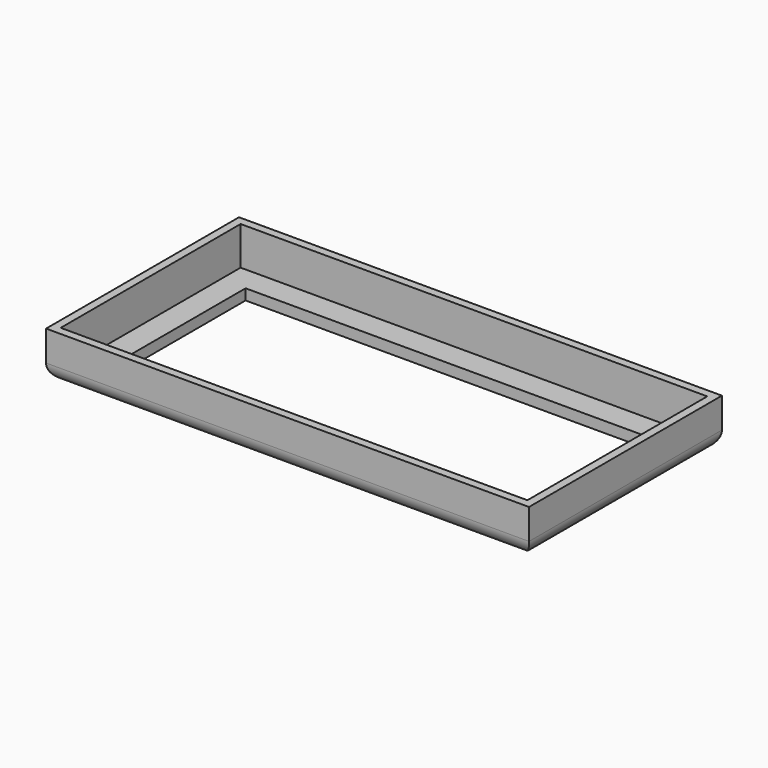
from build123d import *

# Parameters (mm, degrees)
F0_W     = 150.8212983608
F0_H     = 75.3069221973
F1_DEPTH = 14.5422648638
F2_W     = 134.8242838867
F2_H     = 60.1080209017
F3_DEPTH = 15.3549909592
F4_T     = -2.54
F5_R     = 5.08


with BuildPart() as f1:
    # F0 (on Top) → F1 (new body)
    with BuildSketch(Plane.XY):
        with Locations((75.4106491804, -37.6534610987)):
            Rectangle(F0_W, F0_H)
    extrude(amount=F1_DEPTH)

    # F2 (on face) → F3 (join)
    with BuildSketch(Plane.XY.offset(14.5422648638)):
        with Locations((75.1646866556, -37.8053411841)):
            Rectangle(F2_W, F2_H)
    extrude(amount=-F3_DEPTH)

    # F4
    f4_openings = [f1.faces().sort_by_distance(p)[0] for p in [
        (75.164687, -37.805341, -0.812726),
        (75.410649, -37.653461, 14.542265),
    ]]
    offset(amount=F4_T, openings=f4_openings, kind=Kind.INTERSECTION)

    # F5
    f5_edges = [f1.edges().sort_by_distance(p)[0] for p in [
        (75.410649, -75.306922, 0),
        (75.410649, 0, 0),
        (150.821298, -37.653461, 0),
        (0, -37.653461, 0),
    ]]
    fillet(f5_edges, radius=F5_R)


solid = f1.part
